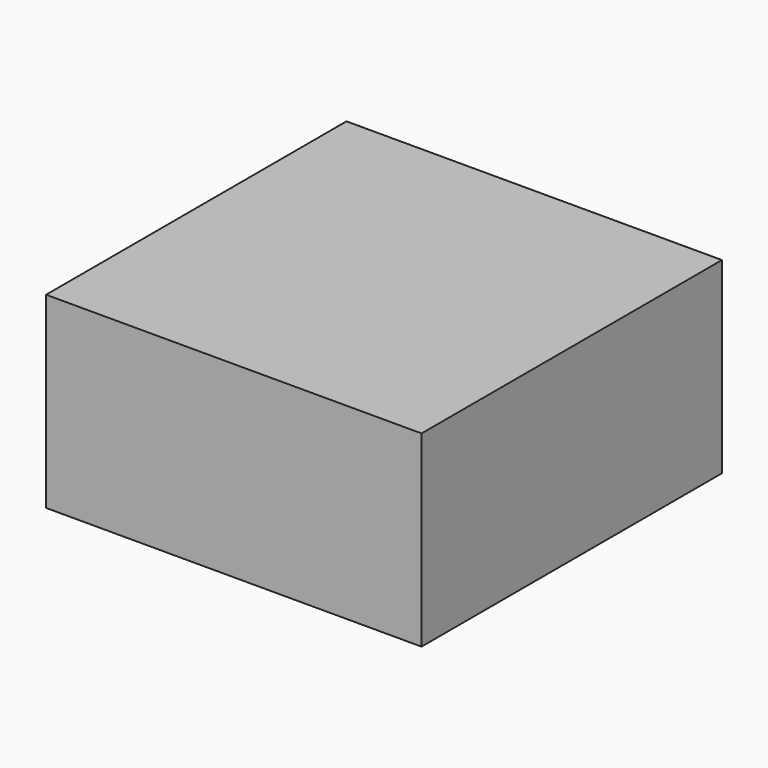
from build123d import *

# Parameters (mm, degrees)
BOX011_W     = 10
BOX011_H     = 10
BOX011_DEPTH = 10
BOX009_W     = 10
BOX009_H     = 10
BOX009_DEPTH = 10
BOX010_W     = 10
BOX010_H     = 10
BOX010_DEPTH = 10
BOX008_W     = 10
BOX008_H     = 10
BOX008_DEPTH = 10


with BuildPart() as cubo011:
    # Box011 → Box011 (new body)
    with BuildSketch(Plane(origin=(10, 10, 0), x_dir=(1, 0, 0), z_dir=(0, 0, 1))):
        with Locations((5, 5)):
            Rectangle(BOX011_W, BOX011_H)
    extrude(amount=BOX011_DEPTH)


with BuildPart() as cubo009:
    # Box009 → Box009 (new body)
    with BuildSketch(Plane(origin=(0, 10, 0), x_dir=(1, 0, 0), z_dir=(0, 0, 1))):
        with Locations((5, 5)):
            Rectangle(BOX009_W, BOX009_H)
    extrude(amount=BOX009_DEPTH)


with BuildPart() as cubo010:
    # Box010 → Box010 (new body)
    with BuildSketch(Plane(origin=(10, 0, 0), x_dir=(1, 0, 0), z_dir=(0, 0, 1))):
        with Locations((5, 5)):
            Rectangle(BOX010_W, BOX010_H)
    extrude(amount=BOX010_DEPTH)


with BuildPart() as fusion002002:
    # Box008 → Box008 (new body)
    with BuildSketch(Plane.XY):
        with Locations((5, 5)):
            Rectangle(BOX008_W, BOX008_H)
    extrude(amount=BOX008_DEPTH)

    # Fusion002002: union Cubo011, Cubo009, Cubo010
    add(cubo011.part)
    add(cubo009.part)
    add(cubo010.part)


with BuildPart() as fusion002002_1:
    # Fusion002002 placement: moved
    add(fusion002002.part.moved(Location((0, -40, 0))))


solid = fusion002002_1.part
